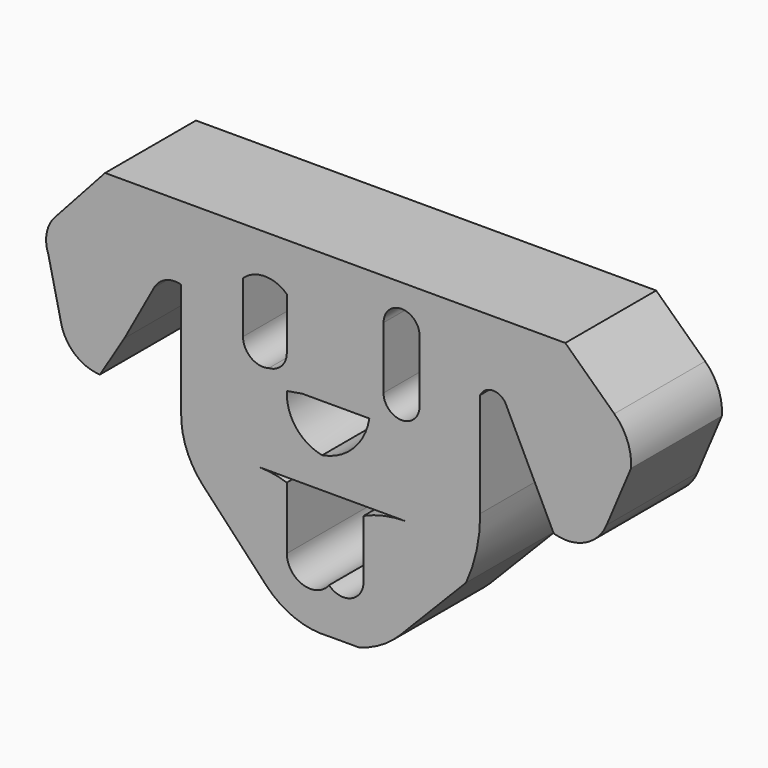
from build123d import *

# Parameters (mm, degrees)
F1_DEPTH = 25.4


with BuildPart() as f1:
    # F0 (on Front) → F1 (new body)
    with BuildSketch(Plane.XZ):
        with BuildLine():
            ThreePointArc((-39.140027, 35.391811), (-36.560582, 37.734512), (-33.085216, 37.986729))
            Line((-33.085216, 37.986729), (-33.085216, 12.902514))
            ThreePointArc((-33.085216, 12.902514), (-31.90952, 5.966876), (-28.183702, 0))
            Line((-28.183702, 0), (-14.055812, -15.064946))
            ThreePointArc((-14.055812, -15.064946), (-7.648839, -19.397211), (0, -20.543108))
            Line((0, -20.543108), (6.70354, -20.543108))
            ThreePointArc((6.70354, -20.543108), (11.677188, -18.411115), (15.929919, -15.064946))
            Line((15.929919, -15.064946), (30.634461, 0))
            ThreePointArc((30.634461, 0), (33.004035, 7.146345), (33.806026, 14.632461))
            Line((33.806026, 14.632461), (33.806026, 37.986729))
            ThreePointArc((33.806026, 37.986729), (36.68927, 39.789823), (39.572515, 37.986729))
            Line((39.572515, 37.986729), (50.240513, 16.074082))
            ThreePointArc((50.240513, 16.074082), (57.20934, 16.529722), (62.061809, 21.552242))
            Line((62.061809, 21.552242), (67.539975, 34.526836))
            ThreePointArc((67.539975, 34.526836), (66.722582, 39.70047), (63.791759, 44.04154))
            Line((63.791759, 44.04154), (52.835435, 54.421216))
            Line((52.835435, 54.421216), (25.156297, 54.421216))
            Line((25.156297, 54.421216), (22.849701, 54.421216))
            Line((22.849701, 54.421216), (5.261919, 54.421216))
            Line((5.261919, 54.421216), (-50.096352, 54.421216))
            Line((-50.096352, 54.421216), (-61.340999, 42.023271))
            ThreePointArc((-61.340999, 42.023271), (-63.167493, 38.335649), (-62.782623, 34.238514))
            Line((-62.782623, 34.238514), (-59.899379, 21.552242))
            ThreePointArc((-59.899379, 21.552242), (-56.794074, 16.484717), (-51.249649, 14.344135))
            Line((-51.249649, 14.344135), (-45.771487, 23.282189))
            Line((-45.771487, 23.282189), (-39.140027, 35.391811))
        make_face()
        with BuildLine():
            Line((-15.785757, 7.712676), (-9.452744, 7.712676))
            Line((-9.452744, 7.712676), (17.083218, 7.712676))
            ThreePointArc((17.083218, 7.712676), (12.289972, 7.202582), (7.711429, 5.695148))
            Line((7.711429, 5.695148), (7.711429, -7.280189))
            ThreePointArc((7.711429, -7.280189), (4.918177, -11.449271), (0, -10.451756))
            ThreePointArc((0, -10.451756), (-5.866974, -12.265498), (-9.452744, -7.280189))
            Line((-9.452744, -7.280189), (-9.452744, 6.684112))
            ThreePointArc((-9.452744, 6.684112), (-12.577759, 7.453861), (-15.785757, 7.712676))
        make_face(mode=Mode.SUBTRACT)
        with BuildLine():
            Line((-9.442623, 24.723811), (-5.982729, 25.300462))
            Line((-5.982729, 25.300462), (9.010135, 25.300462))
            ThreePointArc((9.010135, 25.300462), (5.448393, 18.275855), (-1.534213, 14.632461))
            ThreePointArc((-1.534213, 14.632461), (-7.400178, 18.179924), (-9.442623, 24.723811))
        make_face(mode=Mode.SUBTRACT)
        with BuildLine():
            Line((-19.245649, 32.220244), (-19.245649, 43.753218))
            ThreePointArc((-19.245649, 43.753218), (-14.344136, 45.695412), (-9.442623, 43.753218))
            Line((-9.442623, 43.753218), (-9.452744, 32.220244))
            ThreePointArc((-9.452744, 32.220244), (-10.616261, 29.266754), (-13.479163, 27.895378))
            ThreePointArc((-13.479163, 27.895378), (-17.443622, 28.61619), (-19.245649, 32.220244))
        make_face(mode=Mode.SUBTRACT)
        with BuildLine():
            Line((12.181703, 31.355269), (12.181703, 45.194838))
            ThreePointArc((12.181703, 45.194838), (16.218243, 49.231378), (20.254783, 45.194838))
            Line((20.254783, 45.194838), (20.254783, 31.355269))
            ThreePointArc((20.254783, 31.355269), (16.218243, 27.318729), (12.181703, 31.355269))
        make_face(mode=Mode.SUBTRACT)
    extrude(amount=F1_DEPTH)


solid = f1.part
